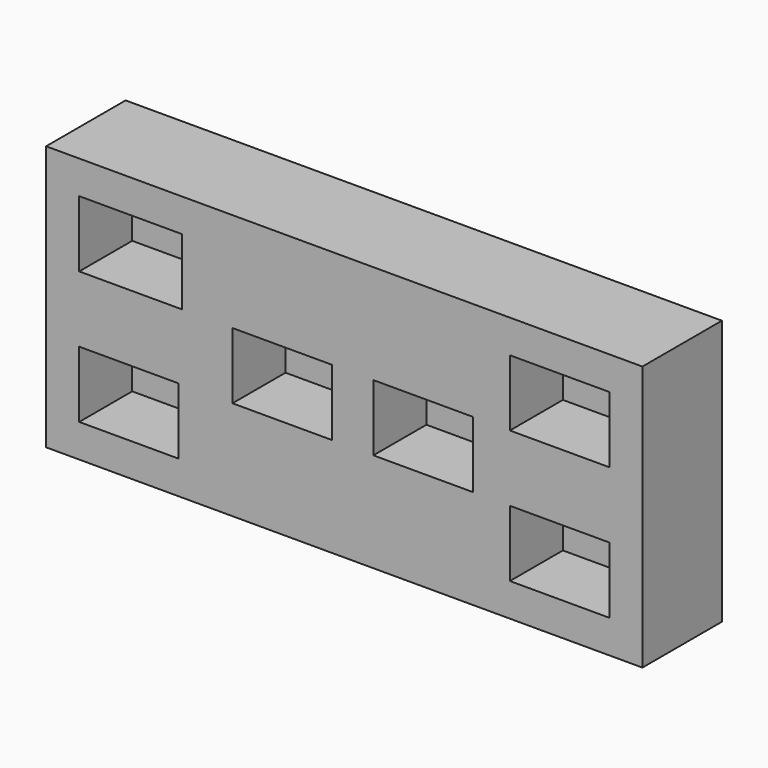
from build123d import *

# Parameters (mm, degrees)
F0_W     = 228.6
F0_H     = 101.6
F0_W_2   = 39.424618
F0_H_2   = 25.4
F0_W_3   = 38.1
F1_DEPTH = 38.1
F2_DEPTH = 25.4


with BuildPart() as f1:
    # F0 (on Front) → F1 (new body)
    with BuildSketch(Plane.XZ):
        Rectangle(F0_W, F0_H)
        Polygon((-63.5, -38.1), (-101.6, -38.1), (-101.6, -12.7), (-101.6, 12.7), (-101.6, 38.1), (-62.175382, 38.1), (63.5, 38.1), (101.6, 38.1), (101.6, 12.7), (101.6, -12.7), (101.6, -38.1), (63.5, -38.1), align=None, mode=Mode.SUBTRACT)
        with Locations((-81.887691, 25.4)):
            Rectangle(F0_W_2, F0_H_2)
        Polygon((-63.5, -12.7), (-63.5, -38.1), (63.5, -38.1), (63.5, -12.7), (101.6, -12.7), (101.6, 12.7), (63.5, 12.7), (63.5, 38.1), (-62.175382, 38.1), (-62.175382, 12.7), (-101.6, 12.7), (-101.6, -12.7), align=None)
        with Locations((-23.794951, 0)):
            Rectangle(F0_W_3, F0_H_2, mode=Mode.SUBTRACT)
        with Locations((30.221954, 0)):
            Rectangle(F0_W_3, F0_H_2, mode=Mode.SUBTRACT)
        with Locations((-23.794951, 0)):
            Rectangle(F0_W_3, F0_H_2)
        with Locations((-82.55, -25.4)):
            Rectangle(F0_W_3, F0_H_2)
        with Locations((30.221954, 0)):
            Rectangle(F0_W_3, F0_H_2)
        with Locations((82.55, -25.4)):
            Rectangle(F0_W_3, F0_H_2)
        with Locations((82.55, 25.4)):
            Rectangle(F0_W_3, F0_H_2)
    extrude(amount=-F1_DEPTH)

    # F0 (on Front) → F2 (cut)
    with BuildSketch(Plane.XZ):
        with Locations((-81.887691, 25.4)):
            Rectangle(F0_W_2, F0_H_2)
        with Locations((-82.55, -25.4)):
            Rectangle(F0_W_3, F0_H_2)
        with Locations((-23.794951, 0)):
            Rectangle(F0_W_3, F0_H_2)
        with Locations((30.221954, 0)):
            Rectangle(F0_W_3, F0_H_2)
        with Locations((82.55, 25.4)):
            Rectangle(F0_W_3, F0_H_2)
        with Locations((82.55, -25.4)):
            Rectangle(F0_W_3, F0_H_2)
    extrude(amount=-F2_DEPTH, mode=Mode.SUBTRACT)


solid = f1.part
